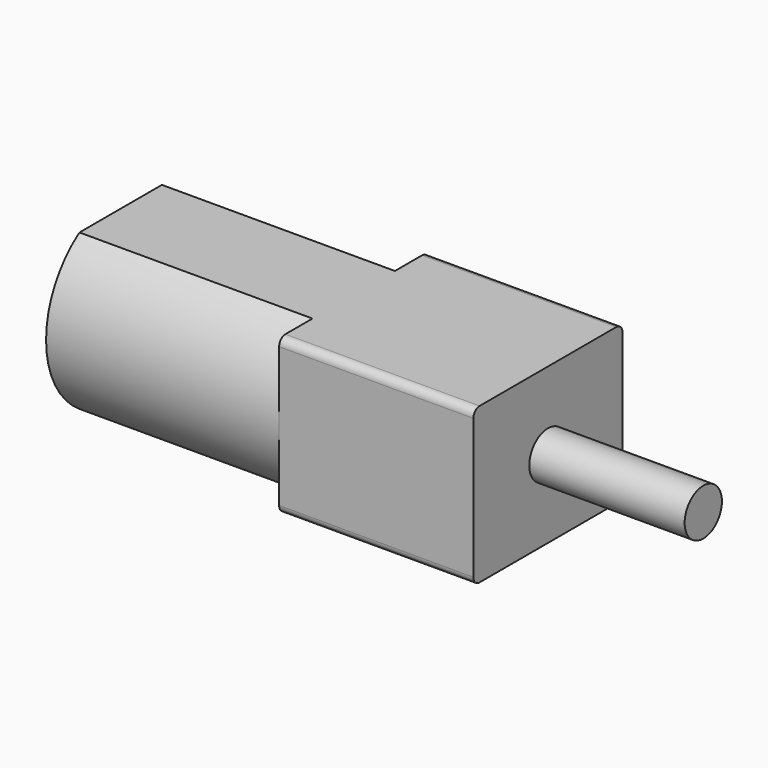
from build123d import *

# Parameters (mm, degrees)
PAD002_DEPTH = 15
SKETCH006_R  = 2
PAD003_DEPTH = 1
SKETCH007_W  = 12
SKETCH007_H  = 10
PAD004_DEPTH = 12.5
FILLET_R     = 0.5
SKETCH008_R  = 1.5
PAD005_DEPTH = 10


with BuildPart() as part:
    # Sketch005 → Pad002 (new body)
    with BuildSketch(Plane.YZ):
        with BuildLine():
            ThreePointArc((-3.316625, 5), (-6, 0), (-3.316625, -5))
            Line((-3.316625, -5), (3.316625, -5))
            ThreePointArc((3.316625, -5), (6, 0), (3.316625, 5))
            Line((-3.316625, 5), (3.316625, 5))
        make_face()
    extrude(amount=PAD002_DEPTH)

    # Sketch006 → Pad003 (join)
    with BuildSketch(Plane.YZ):
        Circle(SKETCH006_R)
    extrude(amount=-PAD003_DEPTH)

    # Sketch007 → Pad004 (join)
    with BuildSketch(Plane.YZ.offset(15)):
        Rectangle(SKETCH007_W, SKETCH007_H)
    extrude(amount=PAD004_DEPTH)

    # Fillet
    fillet_edges = [part.edges().sort_by_distance(p)[0] for p in [
        (21.25, -6, 5),
        (21.25, 6, 5),
        (21.25, -6, -5),
        (21.25, 6, -5),
    ]]
    fillet(fillet_edges, radius=FILLET_R)

    # Sketch008 → Pad005 (join)
    with BuildSketch(Plane.YZ.offset(27.5)):
        Circle(SKETCH008_R)
    extrude(amount=PAD005_DEPTH)


with BuildPart() as part_1:
    # Body002 placement: moved
    add(part.part.moved(Location((20, 6, 0))))


solid = part_1.part
